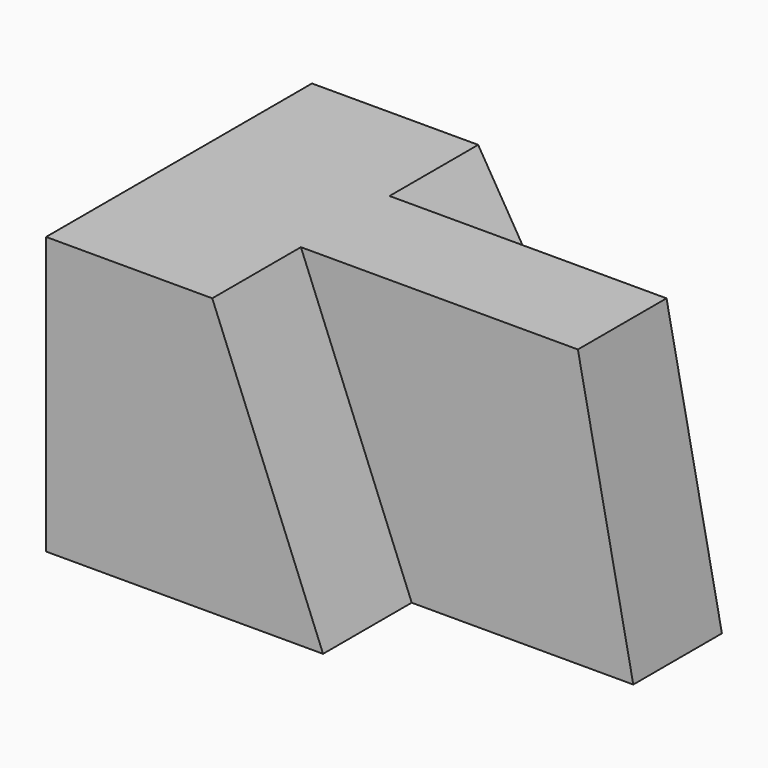
from build123d import *

# Parameters (mm, degrees)
F0_W     = 57.15
F0_H     = 31.75
F1_DEPTH = 38.1
F3_DEPTH = 12.7
F5_DEPTH = 12.7
F7_DEPTH = 12.7


with BuildPart() as f1:
    # F0 (on Front) → F1 (new body)
    with BuildSketch(Plane.XZ):
        with Locations((28.575, 15.875)):
            Rectangle(F0_W, F0_H)
    extrude(amount=F1_DEPTH)

    # F2 (on face) → F3 (cut)
    with BuildSketch(Plane.XZ.offset(38.1)):
        Polygon((57.15, 31.75), (19.05, 31.75), (31.75, 0), (57.15, 0), align=None)
    extrude(amount=-F3_DEPTH, mode=Mode.SUBTRACT)

    # F4 (on face) → F5 (cut)
    with BuildSketch(Plane.XZ.offset(25.4)):
        Polygon((57.15, 31.75), (50.8, 31.75), (57.15, 0), align=None)
    extrude(amount=-F5_DEPTH, mode=Mode.SUBTRACT)

    # F6 (on face) → F7 (cut)
    with BuildSketch(Plane(origin=(0, 0, 0), x_dir=(-1, 0, 0), z_dir=(0, 1, 0))):
        Polygon((-38.1, 0), (-19.05, 31.75), (-57.15, 31.75), (-57.15, 0), align=None)
    extrude(amount=-F7_DEPTH, mode=Mode.SUBTRACT)


solid = f1.part
